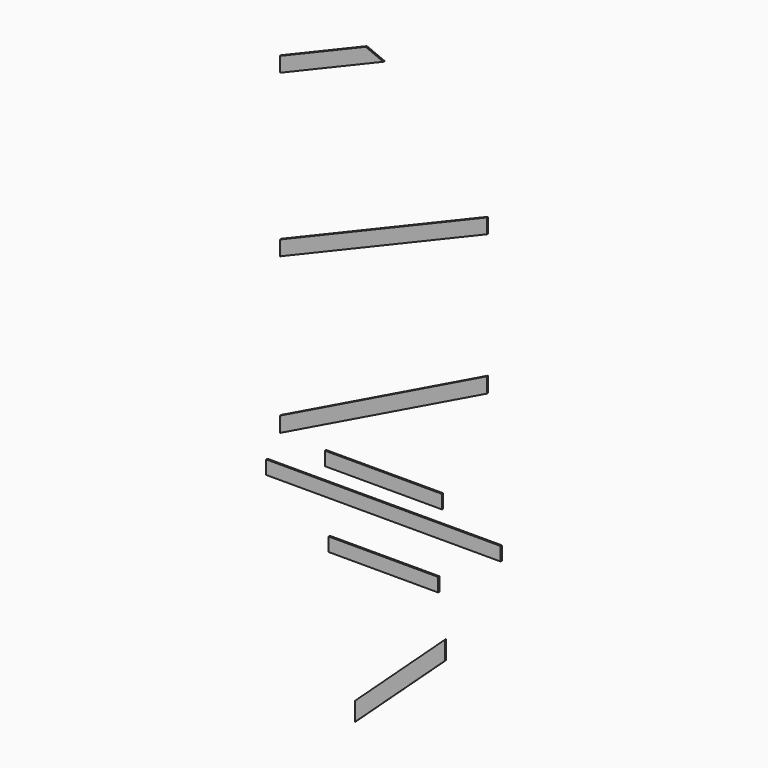
from build123d import *

# Parameters (mm, degrees)
F0_W     = 3000
F0_H     = 175
F0_W_2   = 1500
F0_W_3   = 1400
F1_DEPTH = 20


with BuildPart() as f1:
    # F0 (on Front) → F1 (new body)
    with BuildSketch(Plane.XZ):
        Rectangle(F0_W, F0_H)
        with Locations((0, 342.801094)):
            Rectangle(F0_W_2, F0_H)
        Polygon((1325, 1747.266546), (1325, 1942.33346), (-1325, 637.400373), (-1325, 442.33346), align=None)
        Polygon((1325, 3542.313015), (1325, 3732.051516), (-1325, 2621.790016), (-1325, 2432.051516), align=None)
        with Locations((0, -608.481467)):
            Rectangle(F0_W_3, F0_H)
        Polygon((-1325, 4689.738501), (-1325, 4500), (0, 5055.13075), (-226.436307, 5150), align=None)
        Polygon((787.055948, -1438.160657), (787.055948, -1199.973416), (-362.944052, -2261.786175), (-362.944052, -2499.973416), align=None)
    extrude(amount=F1_DEPTH)


solid = f1.part
